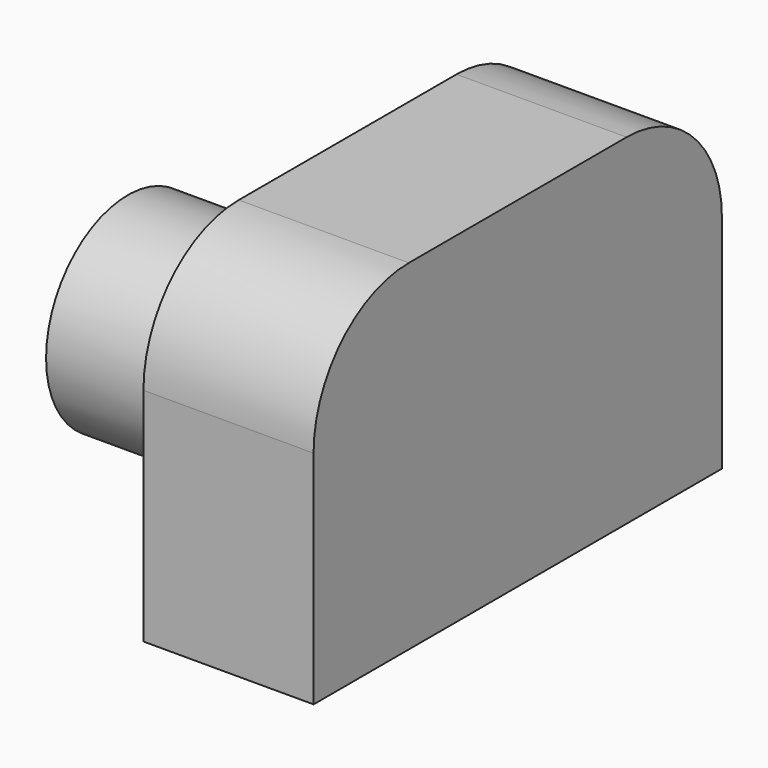
from build123d import *

# Parameters (mm, degrees)
F0_W     = 50
F0_H     = 150
F1_DEPTH = 100
F2_R     = 30
F3_DEPTH = 40
F4_R     = 35
F5_R     = 35


with BuildPart() as f1:
    # F0 (on Top) → F1 (new body)
    with BuildSketch(Plane.XY):
        with Locations((-151.100701, 43.27358)):
            Rectangle(F0_W, F0_H)
    extrude(amount=F1_DEPTH)

    # F2 (on face) → F3 (join)
    with BuildSketch(Plane(origin=(-176.100701, 0, 0), x_dir=(0, -1, 0), z_dir=(-1, 0, 0))):
        with Locations((-12.505785, 54.520387)):
            Circle(F2_R)
    extrude(amount=F3_DEPTH)

    # F4
    f4_edges = [f1.edges().sort_by_distance(p)[0] for p in [
        (-151.100701, 118.27358, 100),
    ]]
    fillet(f4_edges, radius=F4_R)

    # F5
    f5_edges = [f1.edges().sort_by_distance(p)[0] for p in [
        (-151.100701, -31.72642, 100),
    ]]
    fillet(f5_edges, radius=F5_R)


solid = f1.part
